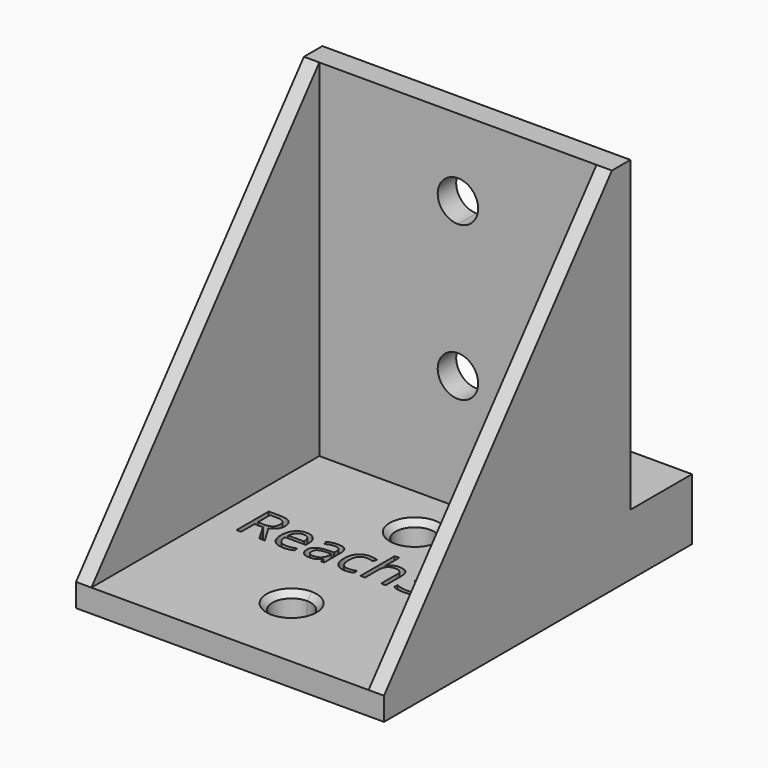
from build123d import *

# Parameters (mm, degrees)
F0_W          = 37
F0_H          = 3
F0_W_2        = 3
F1_DEPTH      = 20
F1_DEPTH_BACK = 20
F2_DEPTH      = 18
F2_DEPTH_BACK = 18
F4_DEPTH      = 25.1
F6_DEPTH      = 25
F7_DEPTH      = 23
F8_SIZE       = 0.75
F9_DEPTH      = 25
F10_DEPTH     = 19
F11_DEPTH     = 16
F12_DEPTH     = 25


with BuildPart() as f1:
    # F0 (on Right) → F1 (new body, two sides)
    with BuildSketch(Plane.YZ) as f1_sk:
        Polygon((17, -21), (20, -21), (20, -16), (20, 24), (17, 24), align=None)
        Polygon((-20, -21), (17, -21), (17, 24), align=None)
        with Locations((-1.5, -22.5)):
            Rectangle(F0_W, F0_H)
        with Locations((18.5, -22.5)):
            Rectangle(F0_W_2, F0_H)
        with Locations((18.5, -22.5)):
            Rectangle(F0_W_2, F0_H)
        Polygon((20, -21), (20, -24), (40, -24), (40, -16), (20, -16), align=None)
    extrude(amount=F1_DEPTH)
    extrude(f1_sk.sketch, amount=-F1_DEPTH_BACK)

    # F0 (on Right) → F2 (cut, two sides)
    with BuildSketch(Plane.YZ) as f2_sk:
        Polygon((-20, -21), (17, -21), (17, 24), align=None)
    extrude(amount=F2_DEPTH, mode=Mode.SUBTRACT)
    extrude(f2_sk.sketch, amount=-F2_DEPTH_BACK, mode=Mode.SUBTRACT)

    # F3 (on Front) → F4 (cut)
    with BuildSketch(Plane.XZ):
        with BuildLine():
            ThreePointArc((2.625, 14), (-1.8561553006, 15.8561553006), (0, 11.375))
            ThreePointArc((0, 11.375), (1.8561553006, 12.1438446994), (2.625, 14))
        make_face()
        with BuildLine():
            ThreePointArc((2.625, -6), (1.8561553006, -4.1438446994), (0, -3.375))
            ThreePointArc((0, -3.375), (-1.8561553006, -7.8561553006), (2.625, -6))
        make_face()
    extrude(amount=-F4_DEPTH, mode=Mode.SUBTRACT)

    # F5 (on Top) → F6 (cut)
    with BuildSketch(Plane.XY):
        with BuildLine():
            ThreePointArc((2.5, 10), (-1.767766953, 11.767766953), (0, 7.5))
            ThreePointArc((0, 7.5), (1.767766953, 8.232233047), (2.5, 10))
        make_face()
        with BuildLine():
            ThreePointArc((2.5, -10), (1.767766953, -8.232233047), (0, -7.5))
            ThreePointArc((0, -7.5), (-1.767766953, -11.767766953), (2.5, -10))
        make_face()
    extrude(amount=-F6_DEPTH, mode=Mode.SUBTRACT)

    # F5 (on Top) → F7 (cut)
    with BuildSketch(Plane.XY):
        with BuildLine():
            add(Edge.make_bspline(
                [(9.1593758428, 3.0510573817), (9.1593758428, 2.5500193183), (8.8785428643, 2.232008858)],
                knots=[0, 0, 0, 1, 1, 1], degree=2))
            add(Edge.make_bspline(
                [(8.7372684332, 4.0068046465), (9.1593758428, 3.6584802394), (9.1593758428, 3.0510573817)],
                knots=[0, 0, 0, 1, 1, 1], degree=2))
            add(Edge.make_bspline(
                [(7.5544525484, 4.3551290536), (8.3151610237, 4.3551290536), (8.7372684332, 4.0068046465)],
                knots=[0, 0, 0, 1, 1, 1], degree=2))
            add(Edge.make_bspline(
                [(6.6690565186, 4.2104228549), (7.0888760831, 4.3551290536), (7.5544525484, 4.3551290536)],
                knots=[0, 0, 0, 1, 1, 1], degree=2))
            add(Edge.make_bspline(
                [(5.9277947261, 3.811765857), (6.249236954, 4.0657166562), (6.6690565186, 4.2104228549)],
                knots=[0, 0, 0, 1, 1, 1], degree=2))
            Line((5.9277947261, 3.811765857), (6.2275024262, 3.4113929753))
            add(Edge.make_bspline(
                [(6.921291434, 3.7551416923), (6.6175800052, 3.661912007), (6.2275024262, 3.4113929753)],
                knots=[0, 0, 0, 1, 1, 1], degree=2))
            add(Edge.make_bspline(
                [(7.5681796186, 3.8483713776), (7.2250028629, 3.8483713776), (6.921291434, 3.7551416923)],
                knots=[0, 0, 0, 1, 1, 1], degree=2))
            add(Edge.make_bspline(
                [(8.2814153093, 3.6298821764), (8.0188850912, 3.8483713776), (7.5681796186, 3.8483713776)],
                knots=[0, 0, 0, 1, 1, 1], degree=2))
            add(Edge.make_bspline(
                [(8.5439455275, 3.0293228539), (8.5439455275, 3.4113929753), (8.2814153093, 3.6298821764)],
                knots=[0, 0, 0, 1, 1, 1], degree=2))
            add(Edge.make_bspline(
                [(8.1864697402, 2.2800536038), (8.5439455275, 2.5500193183), (8.5439455275, 3.0293228539)],
                knots=[0, 0, 0, 1, 1, 1], degree=2))
            add(Edge.make_bspline(
                [(7.2181393278, 2.0100878893), (7.828993953, 2.0100878893), (8.1864697402, 2.2800536038)],
                knots=[0, 0, 0, 1, 1, 1], degree=2))
            Line((7.2181393278, 2.0100878893), (6.696510659, 2.0100878893))
            Line((6.696510659, 2.0100878893), (6.696510659, 1.4998984457))
            Line((6.696510659, 1.4998984457), (7.2112757926, 1.4998984457))
            add(Edge.make_bspline(
                [(8.7052386027, 0.5481549098), (8.7052386027, 1.4998984457), (7.2112757926, 1.4998984457)],
                knots=[0, 0, 0, 1, 1, 1], degree=2))
            add(Edge.make_bspline(
                [(7.35083434, -0.513405188), (8.7052386027, -0.513405188), (8.7052386027, 0.5481549098)],
                knots=[0, 0, 0, 1, 1, 1], degree=2))
            add(Edge.make_bspline(
                [(6.6232996178, -0.4258951153), (7.0076575842, -0.513405188), (7.35083434, -0.513405188)],
                knots=[0, 0, 0, 1, 1, 1], degree=2))
            add(Edge.make_bspline(
                [(5.8991966631, -0.1702284323), (6.2389416513, -0.3383850426), (6.6232996178, -0.4258951153)],
                knots=[0, 0, 0, 1, 1, 1], degree=2))
            Line((5.8991966631, -0.1702284323), (5.8991966631, -0.7353261568))
            add(Edge.make_bspline(
                [(6.5689632981, -0.9549592804), (6.2240706586, -0.8920435419), (5.8991966631, -0.7353261568)],
                knots=[0, 0, 0, 1, 1, 1], degree=2))
            add(Edge.make_bspline(
                [(7.3290998121, -1.017875019), (6.9138559377, -1.017875019), (6.5689632981, -0.9549592804)],
                knots=[0, 0, 0, 1, 1, 1], degree=2))
            add(Edge.make_bspline(
                [(8.8013280943, -0.6152142922), (8.2831311931, -1.017875019), (7.3290998121, -1.017875019)],
                knots=[0, 0, 0, 1, 1, 1], degree=2))
            add(Edge.make_bspline(
                [(9.3195249955, 0.5344278395), (9.3195249955, -0.2125535655), (8.8013280943, -0.6152142922)],
                knots=[0, 0, 0, 1, 1, 1], degree=2))
            add(Edge.make_bspline(
                [(9.0158135666, 1.3780706974), (9.3195249955, 1.0560565083), (9.3195249955, 0.5344278395)],
                knots=[0, 0, 0, 1, 1, 1], degree=2))
            add(Edge.make_bspline(
                [(8.0829447523, 1.7778716179), (8.7121021378, 1.7000848866), (9.0158135666, 1.3780706974)],
                knots=[0, 0, 0, 1, 1, 1], degree=2))
            Line((8.0829447523, 1.7778716179), (8.0829447523, 1.8064696809))
            add(Edge.make_bspline(
                [(8.8785428643, 2.232008858), (8.5977098859, 1.9139983977), (8.0829447523, 1.8064696809)],
                knots=[0, 0, 0, 1, 1, 1], degree=2))
        make_face()
        with BuildLine():
            add(Edge.make_bspline(
                [(14.6387647097, 1.7172437244), (14.6387647097, 0.4234673552), (13.9363962829, -0.2611702726)],
                knots=[0, 0, 0, 1, 1, 1], degree=2))
            add(Edge.make_bspline(
                [(13.9632784621, 3.6052878423), (14.6387647097, 2.9298015947), (14.6387647097, 1.7172437244)],
                knots=[0, 0, 0, 1, 1, 1], degree=2))
            add(Edge.make_bspline(
                [(12.0683708091, 4.2807740898), (13.2877922145, 4.2807740898), (13.9632784621, 3.6052878423)],
                knots=[0, 0, 0, 1, 1, 1], degree=2))
            Line((12.0683708091, 4.2807740898), (10.4668792822, 4.2807740898))
            Line((10.4668792822, 4.2807740898), (10.4668792822, -0.9458079003))
            Line((10.4668792822, -0.9458079003), (11.9150851915, -0.9458079003))
            add(Edge.make_bspline(
                [(13.9363962829, -0.2611702726), (13.2340278561, -0.9458079003), (11.9150851915, -0.9458079003)],
                knots=[0, 0, 0, 1, 1, 1], degree=2))
        make_face()
        with BuildLine():
            add(Edge.make_bspline(
                [(13.9958802539, 1.6955091965), (13.9958802539, 2.7181759286), (13.482831004, 3.2363728298)],
                knots=[0, 0, 0, 1, 1, 1], degree=2))
            add(Edge.make_bspline(
                [(13.4485133285, 0.1140363137), (13.9958802539, 0.6488200915), (13.9958802539, 1.6955091965)],
                knots=[0, 0, 0, 1, 1, 1], degree=2))
            add(Edge.make_bspline(
                [(11.8144200098, -0.420747464), (12.901146403, -0.420747464), (13.4485133285, 0.1140363137)],
                knots=[0, 0, 0, 1, 1, 1], degree=2))
            Line((11.8144200098, -0.420747464), (11.0743021399, -0.420747464))
            Line((11.0743021399, -0.420747464), (11.0743021399, 3.754569731))
            Line((11.0743021399, 3.754569731), (11.9574103247, 3.754569731))
            add(Edge.make_bspline(
                [(13.482831004, 3.2363728298), (12.9697817542, 3.754569731), (11.9574103247, 3.754569731)],
                knots=[0, 0, 0, 1, 1, 1], degree=2))
        make_face(mode=Mode.SUBTRACT)
        with BuildLine():
            Line((4.3800675577, 1.5891244022), (4.3800675577, -0.9458079003))
            Line((4.3800675577, -0.9458079003), (4.9737633451, -0.9458079003))
            Line((4.9737633451, -0.9458079003), (4.9737633451, 1.6097150076))
            add(Edge.make_bspline(
                [(4.6139997128, 2.694725517), (4.9737633451, 2.353264645), (4.9737633451, 1.6097150076)],
                knots=[0, 0, 0, 1, 1, 1], degree=2))
            add(Edge.make_bspline(
                [(3.5358527385, 3.036186389), (4.2542360806, 3.036186389), (4.6139997128, 2.694725517)],
                knots=[0, 0, 0, 1, 1, 1], degree=2))
            add(Edge.make_bspline(
                [(2.7980227137, 2.8737493913), (3.1217527866, 3.036186389), (3.5358527385, 3.036186389)],
                knots=[0, 0, 0, 1, 1, 1], degree=2))
            add(Edge.make_bspline(
                [(2.2992724953, 2.4287635313), (2.4742926407, 2.7113123935), (2.7980227137, 2.8737493913)],
                knots=[0, 0, 0, 1, 1, 1], degree=2))
            Line((2.2992724953, 2.4287635313), (2.2638108972, 2.4287635313))
            add(Edge.make_bspline(
                [(2.2924089602, 2.9332333623), (2.2924089602, 2.6289499722), (2.2638108972, 2.4287635313)],
                knots=[0, 0, 0, 1, 1, 1], degree=2))
            Line((2.2924089602, 2.9332333623), (2.2924089602, 4.6170873105))
            Line((2.2924089602, 4.6170873105), (1.6987131727, 4.6170873105))
            Line((1.6987131727, 4.6170873105), (1.6987131727, -0.9458079003))
            Line((1.6987131727, -0.9458079003), (2.2924089602, -0.9458079003))
            Line((2.2924089602, -0.9458079003), (2.2924089602, 1.1029573316))
            add(Edge.make_bspline(
                [(2.5766737062, 2.203410795), (2.2924089602, 1.8670975744), (2.2924089602, 1.1029573316)],
                knots=[0, 0, 0, 1, 1, 1], degree=2))
            add(Edge.make_bspline(
                [(3.4786566126, 2.5397240157), (2.8609384522, 2.5397240157), (2.5766737062, 2.203410795)],
                knots=[0, 0, 0, 1, 1, 1], degree=2))
            add(Edge.make_bspline(
                [(4.1621503178, 2.3035040154), (3.9442330779, 2.5397240157), (3.4786566126, 2.5397240157)],
                knots=[0, 0, 0, 1, 1, 1], degree=2))
            add(Edge.make_bspline(
                [(4.3800675577, 1.5891244022), (4.3800675577, 2.0672840152), (4.1621503178, 2.3035040154)],
                knots=[0, 0, 0, 1, 1, 1], degree=2))
        make_face()
        with BuildLine():
            add(Edge.make_bspline(
                [(0, 2.5046491904), (-0.1047778593, 2.5179894878), (-0.195622519, 2.5179894878)],
                knots=[0.4909291908, 0.4909291908, 0.4909291908, 1, 1, 1], degree=2))
            Line((0, 2.5046491904), (0, 3.0378530045))
            add(Edge.make_bspline(
                [(-0.1818954488, 3.0441938466), (-0.0909477244, 3.0441938466), (0, 3.0378530045)],
                knots=[0, 0, 0, 0.3218831733, 0.3218831733, 0.3218831733], degree=2))
            add(Edge.make_bspline(
                [(-1.5311520602, 2.5076941851), (-1.056996176, 3.0441938466), (-0.1818954488, 3.0441938466)],
                knots=[0, 0, 0, 1, 1, 1], degree=2))
            add(Edge.make_bspline(
                [(-2.0053079444, 0.9885650797), (-2.0053079444, 1.9711945236), (-1.5311520602, 2.5076941851)],
                knots=[0, 0, 0, 1, 1, 1], degree=2))
            add(Edge.make_bspline(
                [(-1.5385875565, -0.4939585052), (-2.0053079444, 0.0299580086), (-2.0053079444, 0.9885650797)],
                knots=[0, 0, 0, 1, 1, 1], degree=2))
            add(Edge.make_bspline(
                [(-0.2207888145, -1.017875019), (-1.0718671687, -1.017875019), (-1.5385875565, -0.4939585052)],
                knots=[0, 0, 0, 1, 1, 1], degree=2))
            add(Edge.make_bspline(
                [(0, -1.0103941528), (-0.1066539741, -1.017875019), (-0.2207888145, -1.017875019)],
                knots=[0.8088602019, 0.8088602019, 0.8088602019, 1, 1, 1], degree=2))
            Line((0, -1.0103941528), (0, -0.4864915646))
            add(Edge.make_bspline(
                [(-0.2356598072, -0.4985341953), (-0.1185498435, -0.4985341953), (0, -0.4864915646)],
                knots=[0, 0, 0, 0.2391957549, 0.2391957549, 0.2391957549], degree=2))
            add(Edge.make_bspline(
                [(-1.0987493479, -0.1124603451), (-0.8076210668, -0.4985341953), (-0.2356598072, -0.4985341953)],
                knots=[0, 0, 0, 1, 1, 1], degree=2))
            add(Edge.make_bspline(
                [(-1.3898776291, 0.9954286148), (-1.3898776291, 0.2736135052), (-1.0987493479, -0.1124603451)],
                knots=[0, 0, 0, 1, 1, 1], degree=2))
            add(Edge.make_bspline(
                [(-0.195622519, 2.5179894878), (-1.3898776291, 2.5179894878), (-1.3898776291, 0.9954286148)],
                knots=[0, 0, 0, 1, 1, 1], degree=2))
        make_face()
        with BuildLine():
            Line((0, 3.0378530045), (0, 2.5046491904))
            add(Edge.make_bspline(
                [(0.2150456654, 2.4665129744), (0.1010439191, 2.4917842975), (0, 2.5046491904)],
                knots=[0, 0, 0, 0.4909291908, 0.4909291908, 0.4909291908], degree=2))
            add(Edge.make_bspline(
                [(0.64401661, 2.3361058072), (0.4472619367, 2.4150364611), (0.2150456654, 2.4665129744)],
                knots=[0, 0, 0, 1, 1, 1], degree=2))
            Line((0.64401661, 2.3361058072), (0.8259002906, 2.8394317157))
            add(Edge.make_bspline(
                [(0.3832022757, 2.9829939918), (0.6657511379, 2.9217941371), (0.8259002906, 2.8394317157)],
                knots=[0, 0, 0, 1, 1, 1], degree=2))
            add(Edge.make_bspline(
                [(0, 3.0378530045), (0.1916011378, 3.0244946431), (0.3832022757, 2.9829939918)],
                knots=[0.3218831733, 0.3218831733, 0.3218831733, 1, 1, 1], degree=2))
        make_face()
        with BuildLine():
            add(Edge.make_bspline(
                [(0, -0.4864915646), (0.3770686658, -0.4481878557), (0.7687041646, -0.2880524518)],
                knots=[0.2391957549, 0.2391957549, 0.2391957549, 1, 1, 1], degree=2))
            Line((0, -0.4864915646), (0, -1.0103941528))
            add(Edge.make_bspline(
                [(0.7687041646, -0.8131128881), (0.4513353885, -0.9787368266), (0, -1.0103941528)],
                knots=[0, 0, 0, 0.8088602019, 0.8088602019, 0.8088602019], degree=2))
            Line((0.7687041646, -0.8131128881), (0.7687041646, -0.2880524518))
        make_face()
        with BuildLine():
            Line((-3.5667621831, -0.3875737109), (-3.4489381636, -0.9458079003))
            Line((-3.4489381636, -0.9458079003), (-3.0085279937, -0.9458079003))
            Line((-3.0085279937, -0.9458079003), (-3.0085279937, 1.7286829496))
            add(Edge.make_bspline(
                [(-3.3465570981, 2.725611425), (-3.0085279937, 2.4150364611), (-3.0085279937, 1.7286829496)],
                knots=[0, 0, 0, 1, 1, 1], degree=2))
            add(Edge.make_bspline(
                [(-4.3846667843, 3.036186389), (-3.6845862025, 3.036186389), (-3.3465570981, 2.725611425)],
                knots=[0, 0, 0, 1, 1, 1], degree=2))
            add(Edge.make_bspline(
                [(-5.0773118696, 2.9469604325), (-4.7324192301, 3.036186389), (-4.3846667843, 3.036186389)],
                knots=[0, 0, 0, 1, 1, 1], degree=2))
            add(Edge.make_bspline(
                [(-5.7116169065, 2.7010170909), (-5.4222045092, 2.857734476), (-5.0773118696, 2.9469604325)],
                knots=[0, 0, 0, 1, 1, 1], degree=2))
            Line((-5.7116169065, 2.7010170909), (-5.5285893034, 2.2468798507))
            add(Edge.make_bspline(
                [(-4.4212723049, 2.5465875508), (-4.9108711431, 2.5465875508), (-5.5285893034, 2.2468798507)],
                knots=[0, 0, 0, 1, 1, 1], degree=2))
            add(Edge.make_bspline(
                [(-3.7863953067, 2.3269544271), (-3.9842939026, 2.5465875508), (-4.4212723049, 2.5465875508)],
                knots=[0, 0, 0, 1, 1, 1], degree=2))
            add(Edge.make_bspline(
                [(-3.5884967109, 1.6463205282), (-3.5884967109, 2.1073213034), (-3.7863953067, 2.3269544271)],
                knots=[0, 0, 0, 1, 1, 1], degree=2))
            Line((-3.5884967109, 1.6463205282), (-3.5884967109, 1.4026650316))
            Line((-3.5884967109, 1.4026650316), (-4.2531156946, 1.3809305037))
            add(Edge.make_bspline(
                [(-6.1508831539, 0.1374867254), (-6.1508831539, 1.3237343778), (-4.2531156946, 1.3809305037)],
                knots=[0, 0, 0, 1, 1, 1], degree=2))
            add(Edge.make_bspline(
                [(-5.8202895458, -0.7170233964), (-6.1508831539, -0.4161717739), (-6.1508831539, 0.1374867254)],
                knots=[0, 0, 0, 1, 1, 1], degree=2))
            add(Edge.make_bspline(
                [(-4.9074393755, -1.017875019), (-5.4896959378, -1.017875019), (-5.8202895458, -0.7170233964)],
                knots=[0, 0, 0, 1, 1, 1], degree=2))
            add(Edge.make_bspline(
                [(-4.1793326921, -0.8868958905), (-4.4704609732, -1.017875019), (-4.9074393755, -1.017875019)],
                knots=[0, 0, 0, 1, 1, 1], degree=2))
            add(Edge.make_bspline(
                [(-3.595360246, -0.3875737109), (-3.8882044109, -0.7559167621), (-4.1793326921, -0.8868958905)],
                knots=[0, 0, 0, 1, 1, 1], degree=2))
            Line((-3.595360246, -0.3875737109), (-3.5667621831, -0.3875737109))
        make_face()
        with BuildLine():
            add(Edge.make_bspline(
                [(-4.7896153561, -0.5271322583), (-4.2348129343, -0.5271322583), (-3.9185183577, -0.2234208294)],
                knots=[0, 0, 0, 1, 1, 1], degree=2))
            add(Edge.make_bspline(
                [(-5.3341224752, -0.3595476092), (-5.1396556469, -0.5271322583), (-4.7896153561, -0.5271322583)],
                knots=[0, 0, 0, 1, 1, 1], degree=2))
            add(Edge.make_bspline(
                [(-5.5285893034, 0.1306231903), (-5.5285893034, -0.1919629601), (-5.3341224752, -0.3595476092)],
                knots=[0, 0, 0, 1, 1, 1], degree=2))
            add(Edge.make_bspline(
                [(-5.2162984557, 0.7363301642), (-5.5285893034, 0.5412913747), (-5.5285893034, 0.1306231903)],
                knots=[0, 0, 0, 1, 1, 1], degree=2))
            add(Edge.make_bspline(
                [(-4.1959195686, 0.9565352491), (-4.904007608, 0.9313689537), (-5.2162984557, 0.7363301642)],
                knots=[0, 0, 0, 1, 1, 1], degree=2))
            Line((-4.1959195686, 0.9565352491), (-3.6022237811, 0.980557622))
            Line((-3.6022237811, 0.980557622), (-3.6022237811, 0.6270855636))
            add(Edge.make_bspline(
                [(-3.9185183577, -0.2234208294), (-3.6022237811, 0.0802905994), (-3.6022237811, 0.6270855636)],
                knots=[0, 0, 0, 1, 1, 1], degree=2))
        make_face(mode=Mode.SUBTRACT)
        with BuildLine():
            add(Edge.make_bspline(
                [(-8.3106088701, -1.017875019), (-9.1788460621, -1.017875019), (-9.6816000093, -0.4882388926)],
                knots=[0, 0, 0, 1, 1, 1], degree=2))
            add(Edge.make_bspline(
                [(-7.6334067387, -0.958391048), (-7.9136677559, -1.017875019), (-8.3106088701, -1.017875019)],
                knots=[0, 0, 0, 1, 1, 1], degree=2))
            add(Edge.make_bspline(
                [(-7.0385670288, -0.7639242197), (-7.3531457215, -0.898907077), (-7.6334067387, -0.958391048)],
                knots=[0, 0, 0, 1, 1, 1], degree=2))
            Line((-7.0385670288, -0.7639242197), (-7.0385670288, -0.2342880934))
            add(Edge.make_bspline(
                [(-8.2888743422, -0.4985341953), (-7.6562851891, -0.4985341953), (-7.0385670288, -0.2342880934)],
                knots=[0, 0, 0, 1, 1, 1], degree=2))
            add(Edge.make_bspline(
                [(-9.2200272728, -0.141058408), (-8.8894336648, -0.4985341953), (-8.2888743422, -0.4985341953)],
                knots=[0, 0, 0, 1, 1, 1], degree=2))
            add(Edge.make_bspline(
                [(-9.5689236412, 0.9062026583), (-9.5506208809, 0.2164173792), (-9.2200272728, -0.141058408)],
                knots=[0, 0, 0, 1, 1, 1], degree=2))
            Line((-9.5689236412, 0.9062026583), (-6.8704104184, 0.9062026583))
            Line((-6.8704104184, 0.9062026583), (-6.8704104184, 1.2814092446))
            add(Edge.make_bspline(
                [(-7.2993813631, 2.5597426597), (-6.8704104184, 2.0752914729), (-6.8704104184, 1.2814092446)],
                knots=[0, 0, 0, 1, 1, 1], degree=2))
            add(Edge.make_bspline(
                [(-8.4638944877, 3.0441938466), (-7.7283523078, 3.0441938466), (-7.2993813631, 2.5597426597)],
                knots=[0, 0, 0, 1, 1, 1], degree=2))
            add(Edge.make_bspline(
                [(-9.7176335687, 2.4865316185), (-9.2509131808, 3.0441938466), (-8.4638944877, 3.0441938466)],
                knots=[0, 0, 0, 1, 1, 1], degree=2))
            add(Edge.make_bspline(
                [(-10.1843539565, 0.980557622), (-10.1843539565, 1.9288693904), (-9.7176335687, 2.4865316185)],
                knots=[0, 0, 0, 1, 1, 1], degree=2))
            add(Edge.make_bspline(
                [(-9.6816000093, -0.4882388926), (-10.1843539565, 0.0413972338), (-10.1843539565, 0.980557622)],
                knots=[0, 0, 0, 1, 1, 1], degree=2))
        make_face()
        with BuildLine():
            add(Edge.make_bspline(
                [(-8.4719019453, 2.5465875508), (-8.9431980232, 2.5465875508), (-9.2240310016, 2.2394443544)],
                knots=[0, 0, 0, 1, 1, 1], degree=2))
            add(Edge.make_bspline(
                [(-7.7563784095, 2.2480237733), (-8.00632548, 2.5465875508), (-8.4719019453, 2.5465875508)],
                knots=[0, 0, 0, 1, 1, 1], degree=2))
            add(Edge.make_bspline(
                [(-7.5064313391, 1.3889379614), (-7.5064313391, 1.9494599958), (-7.7563784095, 2.2480237733)],
                knots=[0, 0, 0, 1, 1, 1], degree=2))
            Line((-7.5064313391, 1.3889379614), (-9.5551965709, 1.3889379614))
            add(Edge.make_bspline(
                [(-9.2240310016, 2.2394443544), (-9.5048639801, 1.932301158), (-9.5551965709, 1.3889379614)],
                knots=[0, 0, 0, 1, 1, 1], degree=2))
        make_face(mode=Mode.SUBTRACT)
        with BuildLine():
            Line((-13.794573427, -0.9458079003), (-13.794573427, 1.2276448862))
            Line((-13.794573427, 1.2276448862), (-12.7032713437, 1.2276448862))
            Line((-12.7032713437, 1.2276448862), (-11.4380930375, -0.9458079003))
            Line((-11.4380930375, -0.9458079003), (-10.7197096955, -0.9458079003))
            Line((-10.7197096955, -0.9458079003), (-12.1393175418, 1.4026650316))
            add(Edge.make_bspline(
                [(-11.0880527466, 2.8039701176), (-11.0880527466, 1.7675763152), (-12.1393175418, 1.4026650316)],
                knots=[0, 0, 0, 1, 1, 1], degree=2))
            add(Edge.make_bspline(
                [(-11.5473376381, 3.9124310387), (-11.0880527466, 3.5440879875), (-11.0880527466, 2.8039701176)],
                knots=[0, 0, 0, 1, 1, 1], degree=2))
            add(Edge.make_bspline(
                [(-12.9686613682, 4.2807740898), (-12.0066225295, 4.2807740898), (-11.5473376381, 3.9124310387)],
                knots=[0, 0, 0, 1, 1, 1], degree=2))
            Line((-12.9686613682, 4.2807740898), (-14.4019962847, 4.2807740898))
            Line((-14.4019962847, 4.2807740898), (-14.4019962847, -0.9458079003))
            Line((-14.4019962847, -0.9458079003), (-13.794573427, -0.9458079003))
        make_face()
        with BuildLine():
            Line((-12.9606539105, 1.7492735549), (-13.794573427, 1.7492735549))
            Line((-13.794573427, 1.7492735549), (-13.794573427, 3.7477061959))
            Line((-13.794573427, 3.7477061959), (-13.0041229663, 3.7477061959))
            add(Edge.make_bspline(
                [(-12.0226374448, 3.5189216921), (-12.3280647574, 3.7477061959), (-13.0041229663, 3.7477061959)],
                knots=[0, 0, 0, 1, 1, 1], degree=2))
            add(Edge.make_bspline(
                [(-11.7172101322, 2.771940287), (-11.7172101322, 3.2901371882), (-12.0226374448, 3.5189216921)],
                knots=[0, 0, 0, 1, 1, 1], degree=2))
            add(Edge.make_bspline(
                [(-12.0174897935, 2.0049402379), (-11.7172101322, 2.260606921), (-11.7172101322, 2.771940287)],
                knots=[0, 0, 0, 1, 1, 1], degree=2))
            add(Edge.make_bspline(
                [(-12.9606539105, 1.7492735549), (-12.3177694548, 1.7492735549), (-12.0174897935, 2.0049402379)],
                knots=[0, 0, 0, 1, 1, 1], degree=2))
        make_face(mode=Mode.SUBTRACT)
    extrude(amount=-F7_DEPTH, mode=Mode.SUBTRACT)

    # F8
    f8_edges = [f1.edges().sort_by_distance(p)[0] for p in [
        (0, -12.5, -21),
        (0, 12.5, -21),
    ]]
    chamfer(f8_edges, length=F8_SIZE)

    # F5 (on Top) → F9 (cut)
    with BuildSketch(Plane.XY):
        with BuildLine():
            ThreePointArc((-2.625, 30), (0, 32.625), (2.625, 30))
            Line((2.625, 30), (5.25, 30))
            ThreePointArc((5.25, 30), (0, 35.25), (-5.25, 30))
            Line((-5.25, 30), (-2.625, 30))
        make_face()
        with BuildLine():
            Line((5.25, 30), (2.625, 30))
            ThreePointArc((2.625, 30), (0, 27.375), (-2.625, 30))
            Line((-2.625, 30), (-5.25, 30))
            ThreePointArc((-5.25, 30), (0, 24.75), (5.25, 30))
        make_face()
        with BuildLine():
            Line((0, 30), (2.625, 30))
            ThreePointArc((2.625, 30), (0, 32.625), (-2.625, 30))
            Line((-2.625, 30), (0, 30))
        make_face()
        with BuildLine():
            ThreePointArc((-2.625, 30), (0, 27.375), (2.625, 30))
            Line((2.625, 30), (0, 30))
            Line((0, 30), (-2.625, 30))
        make_face()
    extrude(amount=-F9_DEPTH, mode=Mode.SUBTRACT)

    # F5 (on Top) → F10 (join)
    with BuildSketch(Plane.XY):
        with BuildLine():
            ThreePointArc((-2.625, 30), (0, 32.625), (2.625, 30))
            Line((2.625, 30), (5.25, 30))
            ThreePointArc((5.25, 30), (0, 35.25), (-5.25, 30))
            Line((-5.25, 30), (-2.625, 30))
        make_face()
        with BuildLine():
            Line((5.25, 30), (2.625, 30))
            ThreePointArc((2.625, 30), (0, 27.375), (-2.625, 30))
            Line((-2.625, 30), (-5.25, 30))
            ThreePointArc((-5.25, 30), (0, 24.75), (5.25, 30))
        make_face()
    extrude(amount=-F10_DEPTH)

    # F5 (on Top) → F11 (cut)
    with BuildSketch(Plane.XY):
        with BuildLine():
            ThreePointArc((-2.625, 30), (0, 32.625), (2.625, 30))
            Line((2.625, 30), (5.25, 30))
            ThreePointArc((5.25, 30), (0, 35.25), (-5.25, 30))
            Line((-5.25, 30), (-2.625, 30))
        make_face()
        with BuildLine():
            Line((5.25, 30), (2.625, 30))
            ThreePointArc((2.625, 30), (0, 27.375), (-2.625, 30))
            Line((-2.625, 30), (-5.25, 30))
            ThreePointArc((-5.25, 30), (0, 24.75), (5.25, 30))
        make_face()
    extrude(amount=-F11_DEPTH, mode=Mode.SUBTRACT)

    # F5 (on Top) → F12 (cut)
    with BuildSketch(Plane.XY):
        with BuildLine():
            ThreePointArc((-5.25, 30), (0, 35.25), (5.25, 30))
            Line((5.25, 30), (21.1408790201, 30))
            Line((21.1408790201, 30), (21.1408790201, 41.2305593491))
            Line((21.1408790201, 41.2305593491), (-22.2673378885, 41.2305593491))
            Line((-22.2673378885, 41.2305593491), (-22.2673378885, 30))
            Line((-22.2673378885, 30), (-5.25, 30))
        make_face()
        with BuildLine():
            ThreePointArc((-2.625, 30), (0, 32.625), (2.625, 30))
            Line((2.625, 30), (5.25, 30))
            ThreePointArc((5.25, 30), (0, 35.25), (-5.25, 30))
            Line((-5.25, 30), (-2.625, 30))
        make_face()
    extrude(amount=-F12_DEPTH, mode=Mode.SUBTRACT)


solid = f1.part
